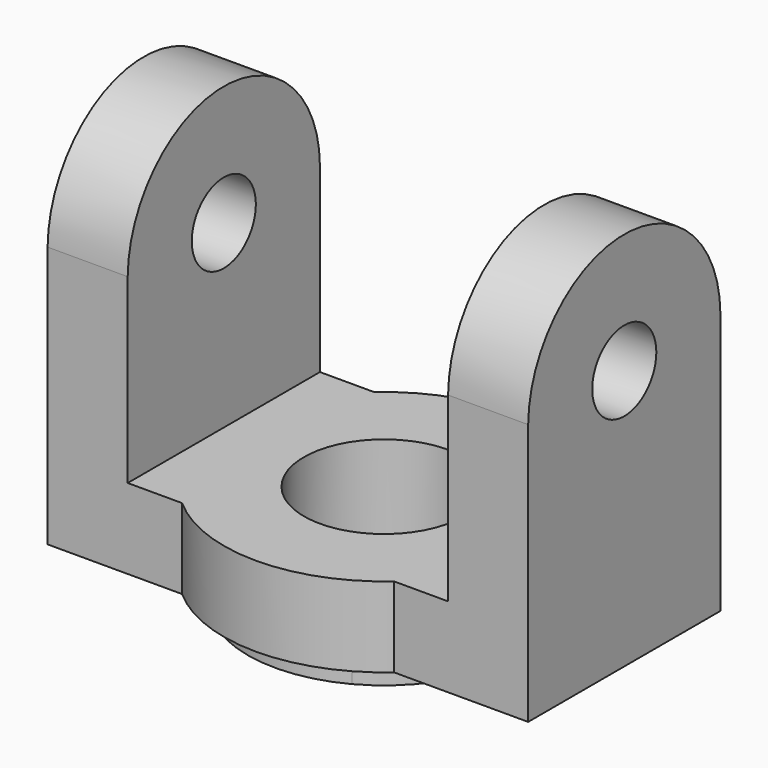
from build123d import *

# Parameters (mm, degrees)
F0_R     = 10
F1_DEPTH = 10
F2_DEPTH = 3
F3_W     = 10
F3_H     = 30
F4_DEPTH = 38
F5_R     = 5
F6_DEPTH = 75
F8_DEPTH = 75


with BuildPart() as f1:
    # F0 (on Top) → F1 (new body)
    with BuildSketch(Plane.XY):
        with BuildLine():
            ThreePointArc((13.2287565553, 15), (18.2287565553, 8.2287565553), (20, 0))
            ThreePointArc((20, 0), (18.2287565553, -8.2287565553), (13.2287565553, -15))
            Line((13.2287565553, -15), (30, -15))
            Line((30, -15), (30, 15))
            Line((30, 15), (13.2287565553, 15))
        make_face()
        with BuildLine():
            ThreePointArc((-13.2287565553, -15), (-20, 0), (-13.2287565553, 15))
            Line((-13.2287565553, 15), (-30, 15))
            Line((-30, 15), (-30, -15))
            Line((-30, -15), (-13.2287565553, -15))
        make_face()
        with BuildLine():
            Line((8, 15), (13.2287565553, 15))
            ThreePointArc((13.2287565553, 15), (0, 20), (-13.2287565553, 15))
            Line((-13.2287565553, 15), (-8, 15))
            ThreePointArc((-8, 15), (0, 17), (8, 15))
        make_face()
        with BuildLine():
            ThreePointArc((-13.2287565553, -15), (0, -20), (13.2287565553, -15))
            Line((13.2287565553, -15), (8, -15))
            ThreePointArc((8, -15), (0, -17), (-8, -15))
            Line((-8, -15), (-13.2287565553, -15))
        make_face()
        with BuildLine():
            ThreePointArc((13.2287565553, -15), (18.2287565553, -8.2287565553), (20, 0))
            ThreePointArc((20, 0), (18.2287565553, 8.2287565553), (13.2287565553, 15))
            Line((13.2287565553, 15), (8, 15))
            ThreePointArc((8, 15), (14.5773797371, 8.7464278423), (17, 0))
            ThreePointArc((17, 0), (14.5773797371, -8.7464278423), (8, -15))
            Line((8, -15), (13.2287565553, -15))
        make_face()
        with BuildLine():
            Line((-8, 15), (-13.2287565553, 15))
            ThreePointArc((-13.2287565553, 15), (-20, 0), (-13.2287565553, -15))
            Line((-13.2287565553, -15), (-8, -15))
            ThreePointArc((-8, -15), (-17, 0), (-8, 15))
        make_face()
        with BuildLine():
            ThreePointArc((17, 0), (14.5773797371, 8.7464278423), (8, 15))
            Line((8, 15), (-8, 15))
            ThreePointArc((-8, 15), (-17, 0), (-8, -15))
            Line((-8, -15), (8, -15))
            ThreePointArc((8, -15), (14.5773797371, -8.7464278423), (17, 0))
        make_face()
        Circle(F0_R, mode=Mode.SUBTRACT)
        with BuildLine():
            Line((-8, 15), (8, 15))
            ThreePointArc((8, 15), (0, 17), (-8, 15))
        make_face()
        with BuildLine():
            ThreePointArc((-8, -15), (0, -17), (8, -15))
            Line((8, -15), (-8, -15))
        make_face()
    extrude(amount=F1_DEPTH)

    # F0 (on Top) → F2 (join)
    with BuildSketch(Plane.XY):
        with BuildLine():
            ThreePointArc((17, 0), (14.5773797371, 8.7464278423), (8, 15))
            Line((8, 15), (-8, 15))
            ThreePointArc((-8, 15), (-17, 0), (-8, -15))
            Line((-8, -15), (8, -15))
            ThreePointArc((8, -15), (14.5773797371, -8.7464278423), (17, 0))
        make_face()
        Circle(F0_R, mode=Mode.SUBTRACT)
        with BuildLine():
            ThreePointArc((-8, -15), (0, -17), (8, -15))
            Line((8, -15), (-8, -15))
        make_face()
        with BuildLine():
            Line((-8, 15), (8, 15))
            ThreePointArc((8, 15), (0, 17), (-8, 15))
        make_face()
    extrude(amount=-F2_DEPTH)

    # F3 (on face) → F4 (join)
    with BuildSketch(Plane.XY.offset(10)):
        with Locations((-25, 0)):
            Rectangle(F3_W, F3_H)
        with Locations((25, 0)):
            Rectangle(F3_W, F3_H)
    extrude(amount=F4_DEPTH)

    # F5 (on face) → F6 (cut)
    with BuildSketch(Plane.YZ.offset(30)):
        with Locations((0, 32.5)):
            Circle(F5_R)
    extrude(amount=-F6_DEPTH, mode=Mode.SUBTRACT)

    # F7 (on face) → F8 (cut)
    with BuildSketch(Plane.YZ.offset(30)):
        with BuildLine():
            Line((-15, 48), (-15, 32.675947994))
            ThreePointArc((-15, 32.675947994), (0, 47.5010318877), (15, 32.675947994))
            Line((15, 32.675947994), (15, 48))
            Line((15, 48), (-15, 48))
        make_face()
    extrude(amount=-F8_DEPTH, mode=Mode.SUBTRACT)


solid = f1.part
